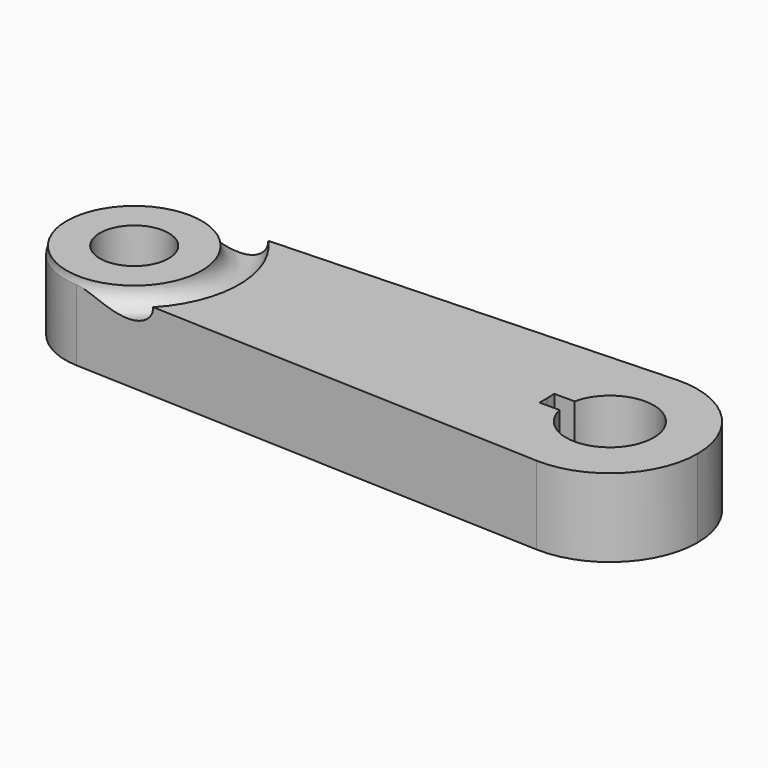
from build123d import *

# Parameters (mm, degrees)
F0_R     = 5.5
F1_DEPTH = 12.5
F2_R     = 3


with BuildPart() as f1:
    # F0 (on Top) → F1 (new body)
    with BuildSketch(Plane.XY):
        with BuildLine():
            ThreePointArc((-37.176539, -10.991427), (-29.119216, -7.930205), (-25.742329, 0))
            ThreePointArc((-25.742329, 0), (-29.119216, 7.930205), (-37.176539, 10.991427))
            ThreePointArc((-37.176539, 10.991427), (-47.742329, 0), (-37.176539, -10.991427))
        make_face()
        with Locations((-36.742329, 0)):
            Circle(F0_R, mode=Mode.SUBTRACT)
        with BuildLine():
            ThreePointArc((53.257671, 0), (48.959814, 10.092989), (38.70504, 13.989089))
            ThreePointArc((38.70504, 13.989089), (25.257671, 0), (38.70504, -13.989089))
            ThreePointArc((38.70504, -13.989089), (48.959814, -10.092989), (53.257671, 0))
        make_face()
        with BuildLine():
            ThreePointArc((32.420274, 1.5), (46.257671, 0), (32.420274, -1.5))
            Line((32.420274, -1.5), (29.227967, -1.5))
            Line((29.227967, -1.5), (29.227967, 0))
            Line((29.227967, 0), (29.168711, 1.5))
            Line((29.168711, 1.5), (32.420274, 1.5))
        make_face(mode=Mode.SUBTRACT)
        with BuildLine():
            ThreePointArc((-37.176539, 10.991427), (-29.119216, 7.930205), (-25.742329, 0))
            ThreePointArc((-25.742329, 0), (-29.119216, -7.930205), (-37.176539, -10.991427))
            Line((-37.176539, -10.991427), (38.70504, -13.989089))
            ThreePointArc((38.70504, -13.989089), (25.257671, 0), (38.70504, 13.989089))
            Line((38.70504, 13.989089), (-37.176539, 10.991427))
        make_face()
    extrude(amount=F1_DEPTH)

    # F2 (on Front) → F3 (revolve, cut)
    with BuildSketch(Plane.XZ):
        with Locations((-50.519399, 12.484903)):
            Circle(F2_R)
    revolve(axis=Axis((-36.742329, 0, 0), (0, 0, -1)), mode=Mode.SUBTRACT)


solid = f1.part
